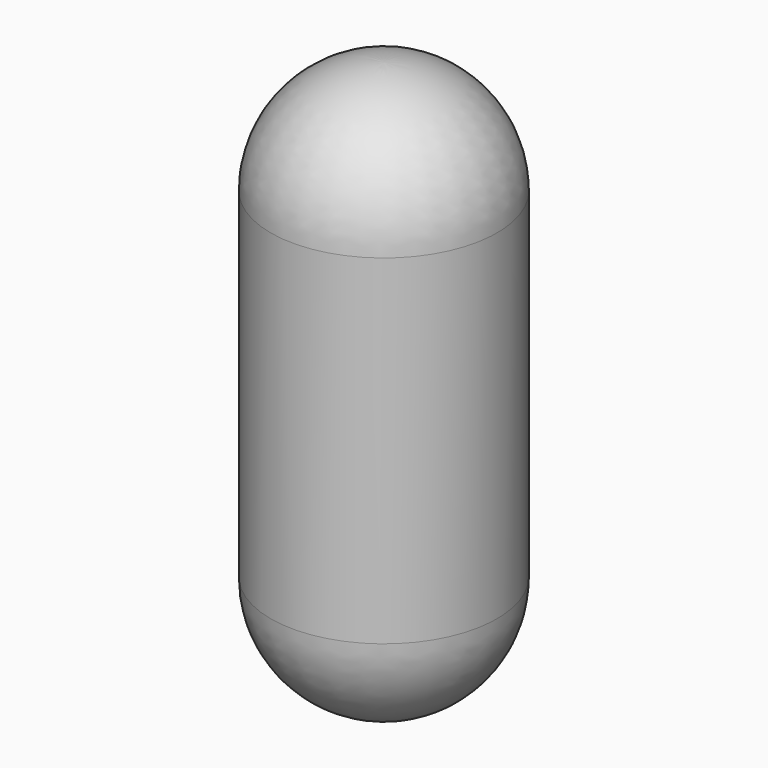
from build123d import *


with BuildPart() as f1:
    # F0 (on Front) → F1 (revolve)
    with BuildSketch(Plane.XZ):
        with BuildLine():
            Line((-250, 0), (0, 0))
            Line((0, 0), (0, 1000))
            ThreePointArc((0, 1000), (-176.776695, 926.776695), (-250, 750))
            Line((-250, 750), (-250, 0))
        make_face()
    revolve(axis=Axis((0, 0, 500), (0, 0, 1)))

    # F2: F1 across face


with BuildPart() as f1_1:
    add(f1.part)
    add(f1.part.mirror(Plane(origin=(0, 0, 0), x_dir=(1, 0, 0), z_dir=(0, 0, -1))))


with BuildPart() as f4:
    # F3 (on Front) → F4 (revolve)
    with BuildSketch(Plane.XZ):
        with BuildLine():
            Line((-500, 0), (-375, 0))
            Line((-375, 0), (-375, 750))
            ThreePointArc((-375, 750), (-265.165043, 1015.165043), (0, 1125))
            Line((0, 1125), (0, 1250))
            ThreePointArc((0, 1250), (-353.553391, 1103.553391), (-500, 750))
            Line((-500, 750), (-500, 0))
        make_face()
    revolve(axis=Axis((0, 0, 1187.5), (0, 0, 1)))

    # F5: F4 across face


with BuildPart() as f4_1:
    add(f4.part)
    add(f4.part.mirror(Plane(origin=(0, 0, 0), x_dir=(1, 0, 0), z_dir=(0, 0, -1))))


solid = Compound([f1_1.part, f4_1.part])
